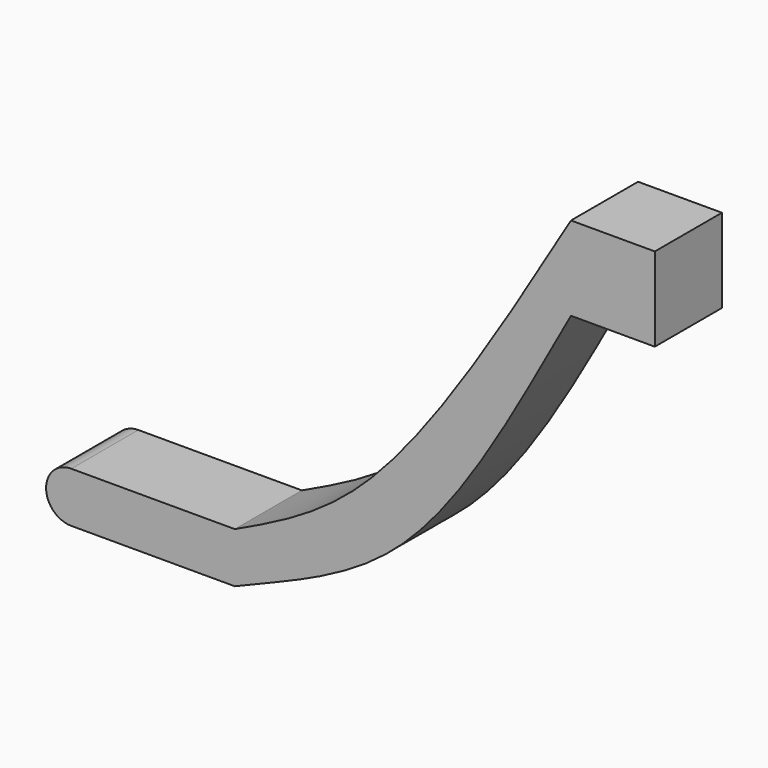
from build123d import *

# Parameters (mm, degrees)
F0_W     = 12.7
F0_H     = 12.7
F1_DEPTH = 12.7
F2_DEPTH = 12.7


with BuildPart() as f1:
    # F0 (on Front) → F1 (new body)
    with BuildSketch(Plane.XZ):
        with Locations((18.5406431556, 58.970926)):
            Rectangle(F0_W, F0_H)
        with BuildLine():
            Line((12.1906431556, 52.620926), (12.1906431556, 65.320926))
            add(Edge.make_bspline(
                [(12.1906431556, 65.320926), (1.6408012652, 47.6242484273), (-15.7682649232, 18.4216656416), (-32.2303568983, 10.6729982106), (-38.7164705157, 7.62)],
                knots=[0, 0, 0, 0, 0.6059970004, 1, 1, 1, 1], degree=3))
            Line((-38.7164705157, 7.62), (-63.4810701013, 7.62))
            ThreePointArc((-63.4810701013, 7.62), (-67.2910701013, 3.81), (-63.4810701013, 0))
            Line((-63.4810701013, 0), (-38.7164705157, 0))
            add(Edge.make_bspline(
                [(12.1906431556, 52.620926), (3.8448232521, 37.5782991027), (-10.2312518477, 10.0416995234), (-31.0323794757, 3.2870267288), (-38.7164705157, 0)],
                knots=[0, 0, 0, 0, 0.5675080648, 1, 1, 1, 1], degree=3))
        make_face()
    extrude(amount=F1_DEPTH)

    # F0 (on Front) → F2 (join)
    with BuildSketch(Plane.XZ):
        with Locations((18.5406431556, 58.970926)):
            Rectangle(F0_W, F0_H)
        with BuildLine():
            Line((12.1906431556, 52.620926), (12.1906431556, 65.320926))
            add(Edge.make_bspline(
                [(12.1906431556, 65.320926), (1.6408012652, 47.6242484273), (-15.7682649232, 18.4216656416), (-32.2303568983, 10.6729982106), (-38.7164705157, 7.62)],
                knots=[0, 0, 0, 0, 0.6059970004, 1, 1, 1, 1], degree=3))
            Line((-38.7164705157, 7.62), (-63.4810701013, 7.62))
            ThreePointArc((-63.4810701013, 7.62), (-67.2910701013, 3.81), (-63.4810701013, 0))
            Line((-63.4810701013, 0), (-38.7164705157, 0))
            add(Edge.make_bspline(
                [(12.1906431556, 52.620926), (3.8448232521, 37.5782991027), (-10.2312518477, 10.0416995234), (-31.0323794757, 3.2870267288), (-38.7164705157, 0)],
                knots=[0, 0, 0, 0, 0.5675080648, 1, 1, 1, 1], degree=3))
        make_face()
    extrude(amount=F2_DEPTH)


solid = f1.part
